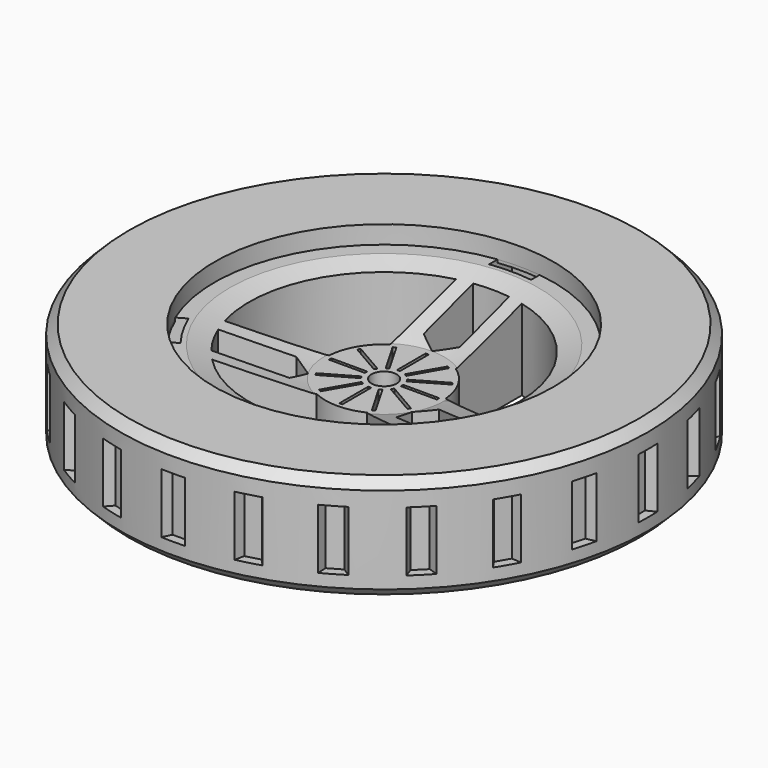
from build123d import *

# Parameters (mm, degrees)
SKETCH_R              = 88
SKETCH_R_2            = 4.2
PAD_DEPTH             = 35
POCKET_DEPTH          = 502.701706
POCKET_DEPTH_BACK     = 537.701706
POCKET001_DEPTH       = 502.701706
POCKET001_DEPTH_BACK  = 537.701706
POLARPATTERN_COUNT    = 3
POLARPATTERN001_COUNT = 3
POCKET003_DEPTH       = 502.701706
POCKET003_DEPTH_BACK  = 537.701706
POLARPATTERN003_COUNT = 3
SKETCH005_W           = 14
SKETCH005_H           = 6
POCKET004_DEPTH       = 100
POCKET004_DEPTH_BACK  = 9
POLARPATTERN004_COUNT = 3
POCKET002_DEPTH       = 10
POLARPATTERN002_COUNT = 24
SKETCH006_W           = 1
SKETCH006_H           = 12
POCKET005_DEPTH       = 502.701706
POCKET005_DEPTH_BACK  = 537.701706
POLARPATTERN005_COUNT = 12
CHAMFER_SIZE          = 3
CHAMFER001_SIZE       = 1


with BuildPart() as part:
    # Sketch → Pad (new body)
    with BuildSketch(Plane.XY):
        Circle(SKETCH_R)
        Circle(SKETCH_R_2, mode=Mode.SUBTRACT)
    extrude(amount=PAD_DEPTH)

    # Sketch001 → Pocket (cut, two sides)
    with BuildSketch(Plane.XY) as pocket_sk:
        with BuildLine():
            Line((-6, 44.598206), (-6, 24))
            Line((-6, 24), (0, 20))
            Line((0, 20), (6, 24))
            Line((6, 24), (6, 44.598206))
            ThreePointArc((6, 44.598206), (0, 45), (-6, 44.598206))
        make_face()
    pocket = extrude(amount=-POCKET_DEPTH, mode=Mode.SUBTRACT) + extrude(pocket_sk.sketch, amount=POCKET_DEPTH_BACK, mode=Mode.SUBTRACT)

    # CopySketch002 → Pocket001 (cut, two sides)
    with BuildSketch(Plane.XY) as pocket001_sk:
        with BuildLine():
            Line((19.444085, 1.475658), (43.288887, -12.291145))
            ThreePointArc((43.288887, -12.291145), (38.971143, 22.5), (11, 43.634848))
            Line((11, 16.101242), (11, 43.634848))
            ThreePointArc((19.444085, 1.475658), (16.887495, 9.75), (11, 16.101242))
        make_face()
    pocket001 = extrude(amount=-POCKET001_DEPTH, mode=Mode.SUBTRACT) + extrude(pocket001_sk.sketch, amount=POCKET001_DEPTH_BACK, mode=Mode.SUBTRACT)

    # PolarPattern: Pocket001 ×3 about axis
    polarpattern_axis = Axis((0, 0, 0), (0, 0, 1))
    for i in range(1, POLARPATTERN_COUNT):
        add(pocket001.rotate(polarpattern_axis, i * 360 / POLARPATTERN_COUNT), mode=Mode.SUBTRACT)

    # PolarPattern001: Pocket ×3 about axis
    polarpattern001_axis = Axis((0, 0, 0), (0, 0, 1))
    for i in range(1, POLARPATTERN001_COUNT):
        add(pocket.rotate(polarpattern001_axis, i * 360 / POLARPATTERN001_COUNT), mode=Mode.SUBTRACT)

    # Sketch002 → Groove (revolve, cut)
    with BuildSketch(Plane.XZ):
        Polygon((0, 35), (56.5, 35), (56.5, 29), (51.5, 29), (20, 19), (0, 19), align=None)
    revolve(axis=Axis((0, 0, 0), (0, 0, 1)), mode=Mode.SUBTRACT)

    # Sketch004 → Pocket003 (cut, two sides)
    with BuildSketch(Plane.XY) as pocket003_sk:
        with BuildLine():
            Line((-7, 52.535702), (-7, 56.064695))
            ThreePointArc((7, 56.064695), (0, 56.5), (-7, 56.064695))
            Line((7, 52.535702), (7, 56.064695))
            ThreePointArc((7, 52.535702), (0, 53), (-7, 52.535702))
        make_face()
    pocket003 = extrude(amount=-POCKET003_DEPTH, mode=Mode.SUBTRACT) + extrude(pocket003_sk.sketch, amount=POCKET003_DEPTH_BACK, mode=Mode.SUBTRACT)

    # PolarPattern003: Pocket003 ×3 about axis
    polarpattern003_axis = Axis((0, 0, 0), (0, 0, 1))
    for i in range(1, POLARPATTERN003_COUNT):
        add(pocket003.rotate(polarpattern003_axis, i * 360 / POLARPATTERN003_COUNT), mode=Mode.SUBTRACT)

    # Sketch005 (on Face37 of Pocket003) → Pocket004 (cut, two sides)
    with BuildSketch(Plane.XY.offset(19)) as pocket004_sk:
        with Locations((0, 59.064695)):
            Rectangle(SKETCH005_W, SKETCH005_H)
    pocket004 = extrude(amount=-POCKET004_DEPTH, mode=Mode.SUBTRACT) + extrude(pocket004_sk.sketch, amount=POCKET004_DEPTH_BACK, mode=Mode.SUBTRACT)

    # PolarPattern004: Pocket004 ×3 about axis
    polarpattern004_axis = Axis((0, 0, 19), (0, 0, 1))
    for i in range(1, POLARPATTERN004_COUNT):
        add(pocket004.rotate(polarpattern004_axis, i * 360 / POLARPATTERN004_COUNT), mode=Mode.SUBTRACT)

    # Sketch003 (on DatumPlane) → Pocket002 (cut, symmetric)
    with BuildSketch(Plane.XY.offset(17)):
        Polygon((-5, 90), (5, 90), (2.5, 85), (-2.5, 85), align=None)
    pocket002 = extrude(amount=POCKET002_DEPTH, both=True, mode=Mode.SUBTRACT)

    # PolarPattern002: Pocket002 ×24 about axis
    polarpattern002_axis = Axis((0, 0, 17), (0, 0, 1))
    for i in range(1, POLARPATTERN002_COUNT):
        add(pocket002.rotate(polarpattern002_axis, i * 360 / POLARPATTERN002_COUNT), mode=Mode.SUBTRACT)

    # Sketch006 → Pocket005 (cut, two sides)
    with BuildSketch(Plane.XY) as pocket005_sk:
        with Locations((0, 12)):
            Rectangle(SKETCH006_W, SKETCH006_H)
    pocket005 = extrude(amount=-POCKET005_DEPTH, mode=Mode.SUBTRACT) + extrude(pocket005_sk.sketch, amount=POCKET005_DEPTH_BACK, mode=Mode.SUBTRACT)

    # PolarPattern005: Pocket005 ×12 about axis
    polarpattern005_axis = Axis((0, 0, 0), (0, 0, 1))
    for i in range(1, POLARPATTERN005_COUNT):
        add(pocket005.rotate(polarpattern005_axis, i * 360 / POLARPATTERN005_COUNT), mode=Mode.SUBTRACT)

    # Chamfer
    chamfer_edges = [part.edges().sort_by_distance(p)[0] for p in [
        (-88, 0, 35),
        (-88, 0, 0),
    ]]
    chamfer(chamfer_edges, length=CHAMFER_SIZE)

    # Chamfer001
    chamfer001_edges = [part.edges().sort_by_distance(p)[0] for p in [
        (-4.2, 0, 0),
    ]]
    chamfer(chamfer001_edges, length=CHAMFER001_SIZE)


solid = part.part
